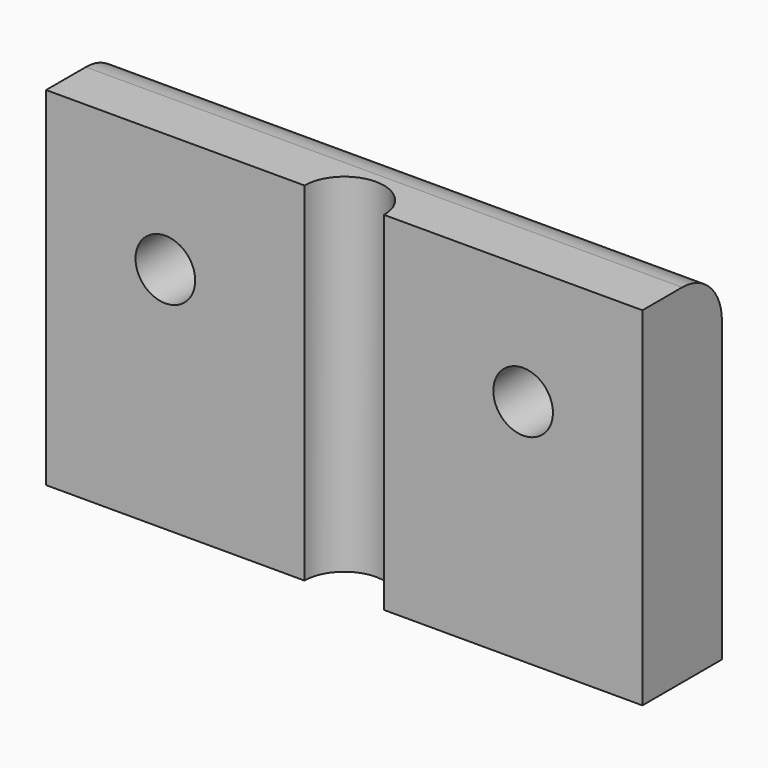
from build123d import *

# Parameters (mm, degrees)
PAD_DEPTH    = 35
SKETCH001_R  = 3
POCKET_DEPTH = 10
FILLET_R     = 5


with BuildPart() as part:
    # Sketch → Pad (new body)
    with BuildSketch(Plane.XY):
        with BuildLine():
            Line((-31.743039, 5.632756), (28.256961, 5.632756))
            Line((28.256961, 5.632756), (28.256961, -4.367244))
            Line((2.256961, -4.367244), (28.256961, -4.367244))
            ThreePointArc((2.256961, -4.367244), (-1.743039, -0.367244), (-5.743039, -4.367244))
            Line((-31.743039, -4.367244), (-5.743039, -4.367244))
            Line((-31.743039, -4.367244), (-31.743039, 5.632756))
        make_face()
    extrude(amount=PAD_DEPTH)

    # Sketch001 → Pocket (cut)
    with BuildSketch(Plane(origin=(0, 5.632756, 0), x_dir=(-1, 0, 0), z_dir=(0, 1, 0))):
        with Locations((-16.256961, 23)):
            Circle(SKETCH001_R)
        with Locations((19.743039, 23)):
            Circle(SKETCH001_R)
    extrude(amount=-POCKET_DEPTH, mode=Mode.SUBTRACT)

    # Fillet
    fillet_edges = [part.edges().sort_by_distance(p)[0] for p in [
        (-1.743039, 5.632756, 35),
    ]]
    fillet(fillet_edges, radius=FILLET_R)


solid = part.part
